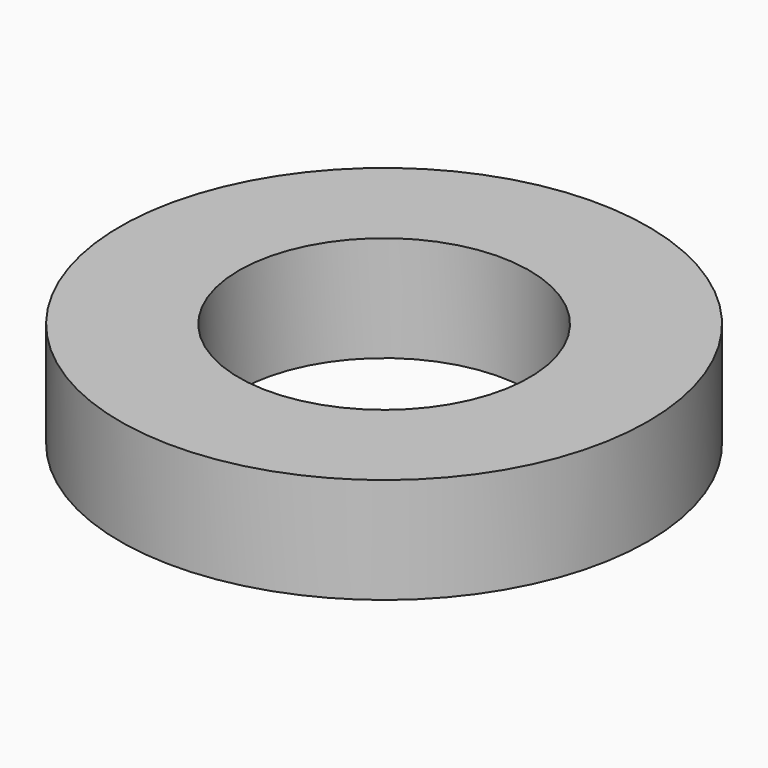
from build123d import *

# Parameters (mm, degrees)
F0_R     = 10
F2_DEPTH = 4
F3_D     = 11


with BuildPart() as f2:
    # F0 (on Top) → F2 (new body)
    with BuildSketch(Plane.XY):
        with Locations((-0.002051, 0)):
            Circle(F0_R)
    extrude(amount=F2_DEPTH)

    # F3 (through all)
    with Locations(Plane(origin=(0, 0, 0), x_dir=(1, 0, 0), z_dir=(0, 0, -1))):
        with Locations((0, 0)):
            Hole(F3_D / 2)


solid = f2.part
